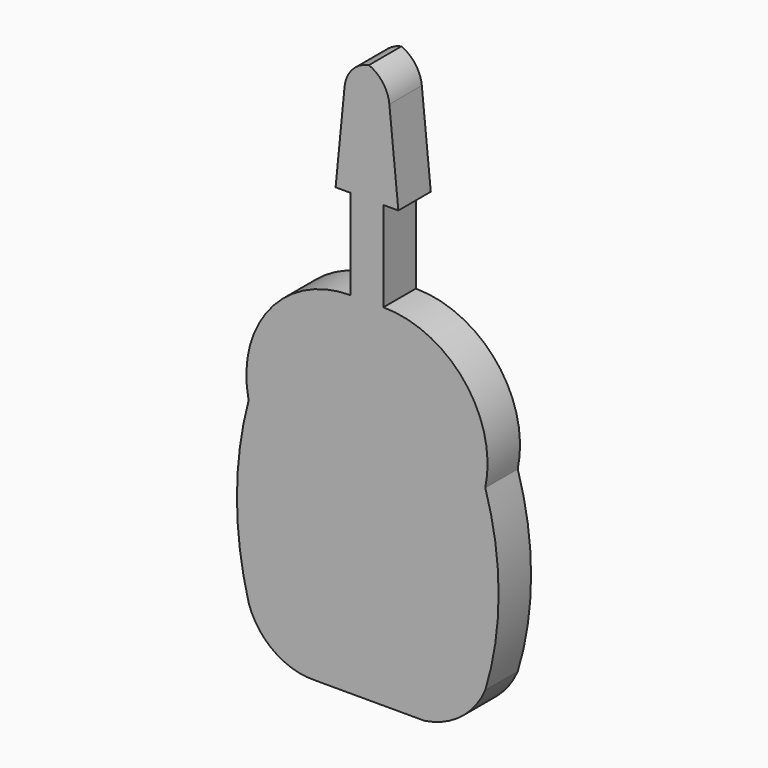
from build123d import *

# Parameters (mm, degrees)
F0_W     = 10.077599
F0_H     = 27.637042
F1_DEPTH = 12.446


with BuildPart() as f1:
    # F0 (on Front) → F1 (new body)
    with BuildSketch(Plane.XZ):
        with BuildLine():
            Line((-7.481851, 55.732161), (-10.230287, 27.637042))
            Line((-10.230287, 27.637042), (-5.649562, 27.637042))
            Line((-5.649562, 27.637042), (4.428037, 27.637042))
            Line((4.428037, 27.637042), (9.00876, 27.637042))
            Line((9.00876, 27.637042), (6.260325, 55.426773))
            ThreePointArc((6.260325, 55.426773), (4.298209, 60.557292), (0, 63.977458))
            ThreePointArc((0, 63.977458), (-5.105703, 61.09322), (-7.481851, 55.732161))
        make_face()
        with Locations((-0.610762, 13.818521)):
            Rectangle(F0_W, F0_H)
        with BuildLine():
            Line((4.428037, 0), (-5.649562, 0))
            ThreePointArc((-5.649562, 0), (-30.479653, -11.838325), (-36.914442, -38.58291))
            Line((-36.914442, -38.58291), (35.692916, -38.58291))
            ThreePointArc((35.692916, -38.58291), (29.258127, -11.838325), (4.428037, 0))
        make_face()
        with BuildLine():
            Line((35.692916, -38.58291), (-36.914442, -38.58291))
            ThreePointArc((-36.914442, -38.58291), (-40.497037, -65.894576), (-36.914442, -93.206242))
            ThreePointArc((-36.914442, -93.206242), (-29.192835, -103.766309), (-16.672513, -107.558377))
            Line((-16.672513, -107.558377), (16.980784, -107.558377))
            ThreePointArc((16.980784, -107.558377), (28.203918, -102.816569), (35.692916, -93.206242))
            ThreePointArc((35.692916, -93.206242), (39.7692, -65.894576), (35.692916, -38.58291))
        make_face()
    extrude(amount=F1_DEPTH)


solid = f1.part
